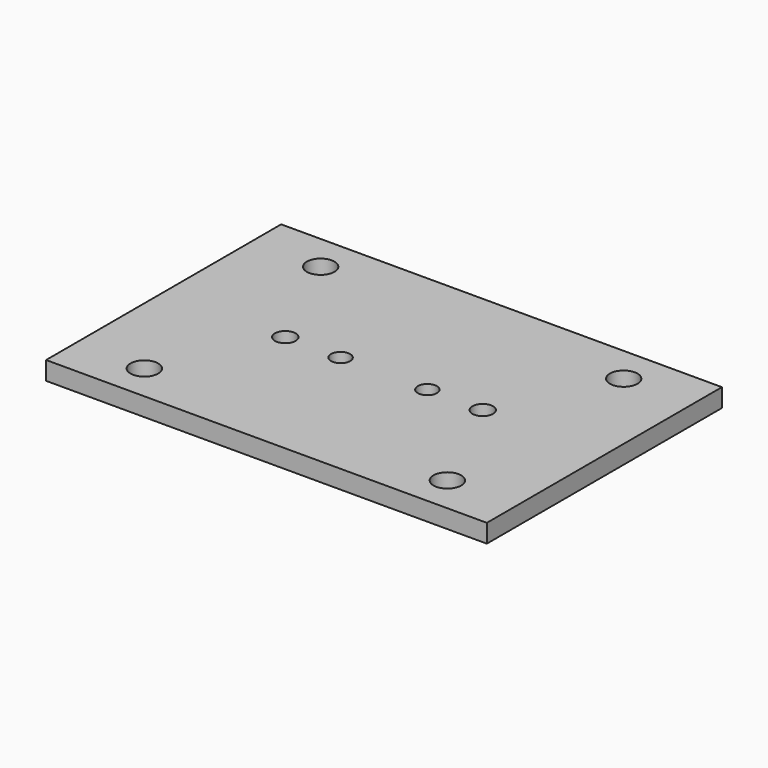
from build123d import *

# Parameters (mm, degrees)
F0_W     = 152.4
F0_H     = 101.6
F1_DEPTH = 6.35
F2_R     = 4.78155
F3_DEPTH = 6.35
F5_DEPTH = 6.351
F6_R     = 3.3
F7_DEPTH = 6.351


with BuildPart() as f1:
    # F0 (on Top) → F1 (new body)
    with BuildSketch(Plane.XY):
        Rectangle(F0_W, F0_H)
    extrude(amount=F1_DEPTH)

    # F2 (on face) → F3 (cut, through all)
    with BuildSketch(Plane.XY.offset(6.35)):
        with Locations((-52.3875, 38.1)):
            Circle(F2_R)
        with Locations((52.3875, 38.1)):
            Circle(F2_R)
        with Locations((-52.3875, -38.1)):
            Circle(F2_R)
        with Locations((52.3875, -38.1)):
            Circle(F2_R)
    extrude(amount=-F3_DEPTH, mode=Mode.SUBTRACT)

    # F4 (on face) → F5 (cut, through all)
    with BuildSketch(Plane.XY.offset(6.35)):
        with BuildLine():
            Line((-34.217194, -3.570841), (-34.13125, -3.571875))
            ThreePointArc((-34.13125, -3.571875), (-34.088275, 3.571616), (-34.217194, -3.570841))
        make_face()
        with BuildLine():
            Line((34.13125, -3.571875), (34.275124, -3.568976))
            ThreePointArc((34.275124, -3.568976), (34.059298, 3.57115), (34.13125, -3.571875))
        make_face()
    extrude(amount=-F5_DEPTH, mode=Mode.SUBTRACT)

    # F6 (on face) → F7 (cut, through all)
    with BuildSketch(Plane.XY.offset(6.35)):
        with Locations((-15, 0)):
            Circle(F6_R)
        with Locations((15, 0)):
            Circle(F6_R)
    extrude(amount=-F7_DEPTH, mode=Mode.SUBTRACT)


solid = f1.part
